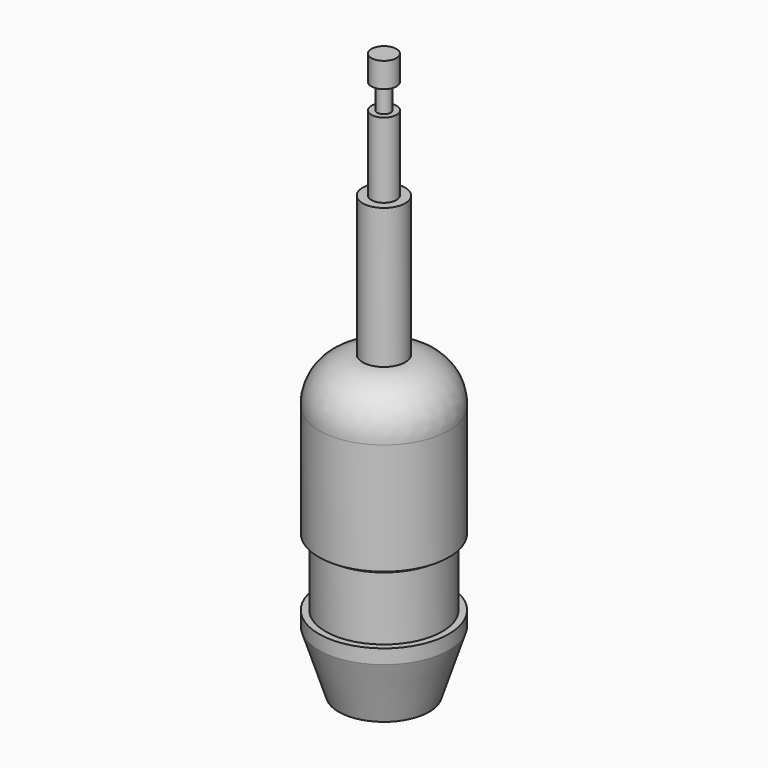
from build123d import *


with BuildPart() as f1:
    # F0 (on Front) → F1 (revolve)
    with BuildSketch(Plane.XZ):
        with BuildLine():
            Line((0, -67.055455), (0, 45.944545))
            Line((0, 45.944545), (-2.5, 45.944545))
            Line((-2.5, 45.944545), (-2.5, 40.944545))
            Line((-2.5, 40.944545), (-1.342105, 40.944545))
            Line((-1.342105, 40.944545), (-1.342105, 35.944545))
            Line((-1.342105, 35.944545), (-2.5, 35.944545))
            Line((-2.5, 35.944545), (-2.5, 20.944545))
            Line((-2.5, 20.944545), (-4.25, 20.944545))
            Line((-4.25, 20.944545), (-4.25, -7.055455))
            ThreePointArc((-4.25, -7.055455), (-10.591536, -9.772009), (-13, -16.23684))
            Line((-13, -16.23684), (-13, -38.544123))
            Line((-13, -38.544123), (-11.674659, -39.383397))
            Line((-11.674659, -39.383397), (-11.674659, -52.055455))
            Line((-11.674659, -52.055455), (-13, -52.055455))
            Line((-13, -52.055455), (-13, -54.909937))
            Line((-13, -54.909937), (-9.052842, -67.055455))
            Line((-9.052842, -67.055455), (0, -67.055455))
        make_face()
    revolve(axis=Axis((0, 0, -10.555455), (0, 0, 1)))


solid = f1.part
